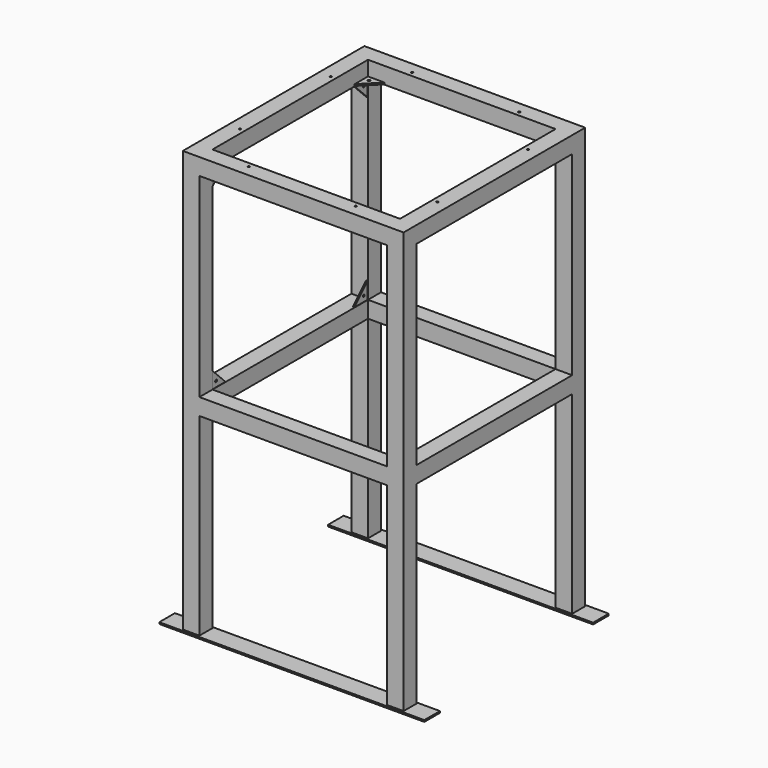
from build123d import *

# Parameters (mm, degrees)
F0_W      = 576
F0_H      = 598
F1_DEPTH  = 50.1
F3_W      = 51
F3_H      = 51
F4_DEPTH  = 298.5
F8_DEPTH  = 5
F12_DEPTH = 5
F13_W     = 814
F13_H     = 60
F14_DEPTH = 5
F16_D     = 7
F18_D     = 7
F20_D     = 7
F20_DEPTH = 15
F20_TIP   = 2.1030121666
F23_D     = 6
F23_DEPTH = 15
F23_TIP   = 1.8025818571


with BuildPart() as f1:
    # F0 (on Front) → F1 (new body)
    with BuildSketch(Plane.XZ):
        Polygon((51, 0), (0, 0), (0, -51), (0, -649), (0, -700), (0, -1294), (51, -1294), (51, -700), (627, -700), (627, -1294), (678, -1294), (678, -700), (678, -649), (678, -51), (678, 0), (627, 0), align=None)
        with Locations((339, -350)):
            Rectangle(F0_W, F0_H, mode=Mode.SUBTRACT)
    extrude(amount=F1_DEPTH)

    # F3 (on face) → F4 (join)
    with BuildSketch(Plane(origin=(0, 0, 0), x_dir=(-1, 0, 0), z_dir=(0, 1, 0))):
        with Locations((-25.5, -25.5)):
            Rectangle(F3_W, F3_H)
        with Locations((-652.5, -25.5)):
            Rectangle(F3_W, F3_H)
        with Locations((-652.5, -674.5)):
            Rectangle(F3_W, F3_H)
        with Locations((-25.5, -674.5)):
            Rectangle(F3_W, F3_H)
    extrude(amount=F4_DEPTH)

    # F5: F1 across plane


with BuildPart() as f1_1:
    add(f1.part)
    add(f1.part.mirror(Plane.XZ.offset(-298.5)))

    # F7 (on offset) → F8 (join)
    with BuildSketch(Plane.XY.offset(-50.1)):
        Polygon((51, 0), (102, 0), (51, 51), align=None)
        Polygon((51, 597), (51, 546), (102, 597), align=None)
        Polygon((576, 597), (627, 546), (627, 597), align=None)
        Polygon((627, 0), (627, 51), (576, 0), align=None)
    extrude(amount=F8_DEPTH)

    # F10 (on offset) → F12 (join)
    with BuildSketch(Plane.YZ.offset(50.1)):
        Polygon((51, -51), (0, -51), (0, -102), align=None)
        Polygon((546, -51), (597, -102), (597, -51), align=None)
        Polygon((0, -649), (51, -649), (0, -598), align=None)
        Polygon((597, -598), (546, -649), (597, -649), align=None)
    extrude(amount=-F12_DEPTH)

    # F13 (on face) → F14 (join)
    with BuildSketch(Plane(origin=(0, 0, -1294), x_dir=(1, 0, 0), z_dir=(0, 0, -1))):
        with Locations((339, 25.5)):
            Rectangle(F13_W, F13_H)
        with Locations((339, -622.5)):
            Rectangle(F13_W, F13_H)
    extrude(amount=F14_DEPTH)

    # F16 (through all)
    with Locations(Plane.XY.offset(-45.1)):
        with Locations((66, 582), (612, 582), (612, 15), (66, 15)):
            Hole(F16_D / 2)

    # F18 (through all)
    with Locations(Plane.YZ.offset(50.1)):
        with Locations((15, -632.2), (582, -632.2), (582, -66), (15, -66)):
            Hole(F18_D / 2)

    # F20
    with Locations(Plane(origin=(0, 0, 0), x_dir=(0, -1, 0), z_dir=(-1, 0, 0))):
        with Locations((-612, -174.75), (-472.35, -36), (-124.65, -36), (15, -174.75), (15, -523.45), (-124.65, -662.2), (-472.35, -662.2), (-612, -523.45)):
            Hole(F20_D / 2, depth=F20_DEPTH)
            with Locations((0, 0, -(F20_DEPTH + F20_TIP / 2))):  # 118° drill point
                Cone(0, F20_D / 2, F20_TIP, mode=Mode.SUBTRACT)

    # F23
    with Locations(Plane.XY):
        with Locations((174.5, -15), (36, 124.4), (36, 472.6), (174.5, 612), (503.5, 612), (642, 472.6), (642, 124.4), (503.5, -15)):
            Hole(F23_D / 2, depth=F23_DEPTH)
            with Locations((0, 0, -(F23_DEPTH + F23_TIP / 2))):  # 118° drill point
                Cone(0, F23_D / 2, F23_TIP, mode=Mode.SUBTRACT)


solid = f1_1.part
